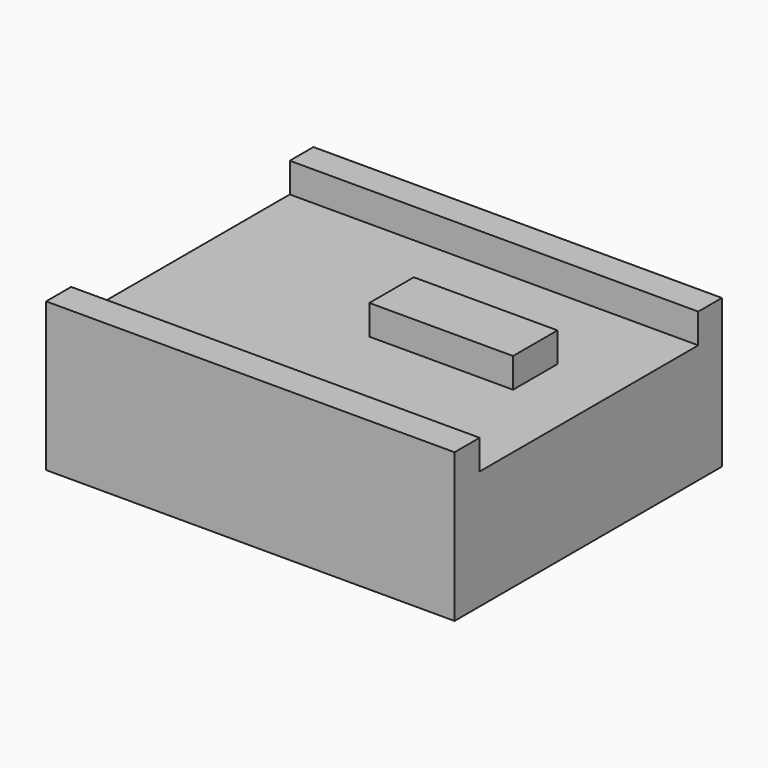
from build123d import *

# Parameters (mm, degrees)
F0_W     = 69.85
F0_H     = 46.728912
F0_R     = 3.018536
F0_W_2   = 24.570362
F0_H_2   = 9.496521
F1_DEPTH = 20.32
F0_H_3   = 5.360574
F0_H_4   = 5.060514
F2_DEPTH = 25.4


with BuildPart() as f1:
    # F0 (on Top) → F1 (new body)
    with BuildSketch(Plane.XY):
        with Locations((-30.394862, 8.510193)):
            Rectangle(F0_W, F0_H)
        with Locations((-56.652177, -5.056264)):
            Circle(F0_R, mode=Mode.SUBTRACT)
        with BuildLine():
            ThreePointArc((-47.310162, -5.056264), (-50.471902, -8.218004), (-53.633642, -5.056264))
            ThreePointArc((-53.633642, -5.056264), (-50.471902, -1.894525), (-47.310162, -5.056264))
        make_face(mode=Mode.SUBTRACT)
        with Locations((-19.042942, 11.148115)):
            Rectangle(F0_W_2, F0_H_2, mode=Mode.SUBTRACT)
        with Locations((-56.652177, -5.056264)):
            Circle(F0_R)
        with BuildLine():
            ThreePointArc((-47.310162, -5.056264), (-50.471902, -1.894525), (-53.633642, -5.056264))
            ThreePointArc((-53.633642, -5.056264), (-50.471902, -8.218004), (-47.310162, -5.056264))
        make_face()
    extrude(amount=F1_DEPTH)

    # F0 (on Top) → F2 (join)
    with BuildSketch(Plane.XY):
        with Locations((-19.042942, 11.148115)):
            Rectangle(F0_W_2, F0_H_2)
        with Locations((-30.394862, -17.53455)):
            Rectangle(F0_W, F0_H_3)
        with Locations((-30.394862, 34.404906)):
            Rectangle(F0_W, F0_H_4)
    extrude(amount=F2_DEPTH)


solid = f1.part
